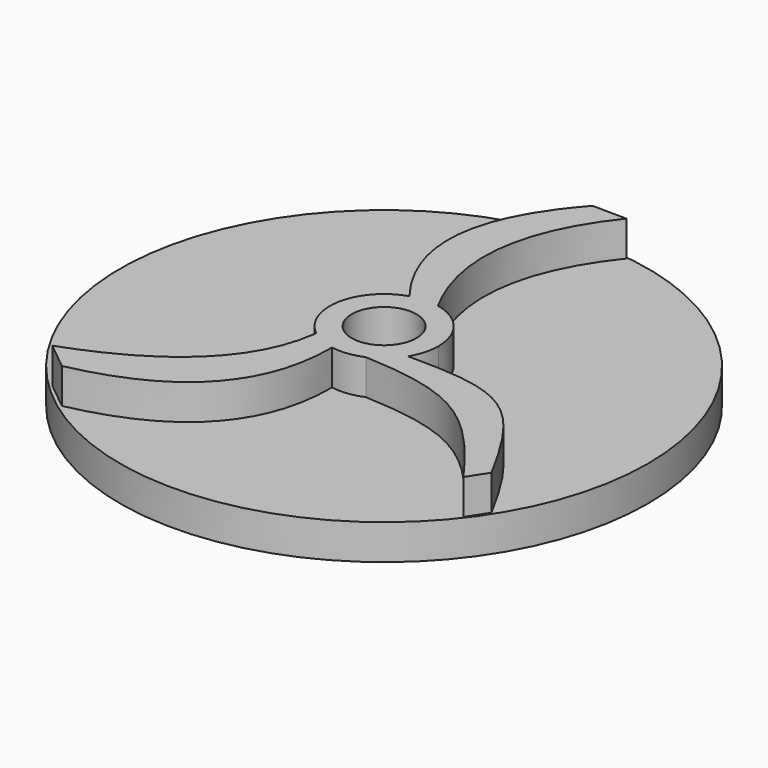
from build123d import *

# Parameters (mm, degrees)
F0_R     = 38.1
F1_DEPTH = 5.08
F3_DEPTH = 5.08
F4_R     = 4.679015
F5_DEPTH = 25.4


with BuildPart() as f1:
    # F0 (on Top) → F1 (new body)
    with BuildSketch(Plane.XY):
        Circle(F0_R)
    extrude(amount=-F1_DEPTH)

    # F2 (on Top) → F3 (join)
    with BuildSketch(Plane.XY):
        with BuildLine():
            ThreePointArc((6.714925, -4.061114), (7.559037, -2.108039), (7.847475, 0))
            ThreePointArc((7.847475, 0), (6.10013, 4.936729), (1.636232, 7.674999))
            ThreePointArc((1.636232, 7.674999), (-0.362003, 7.839121), (-2.336609, 7.491537))
            ThreePointArc((-2.336609, 7.491537), (-7.713703, 1.442794), (-4.88639, -6.140526))
            ThreePointArc((-4.88639, -6.140526), (-3.20497, -7.163173), (-1.321987, -7.735323))
            ThreePointArc((-1.321987, -7.735323), (0.937058, -7.791328), (3.118403, -7.20128))
            ThreePointArc((3.118403, -7.20128), (5.161274, -5.911356), (6.714925, -4.061114))
        make_face()
        with BuildLine():
            ThreePointArc((-2.336609, 7.491537), (-0.362003, 7.839121), (1.636232, 7.674999))
            add(Edge.make_bspline(
                [(4.922261, 37.561897), (-3.396095, 27.139671), (-3.426963, 16.903229), (1.636232, 7.674999)],
                knots=[0, 0, 0, 0, 30.067003, 30.067003, 30.067003, 30.067003], degree=3))
            Line((4.922261, 37.561897), (0, 37.607454))
            add(Edge.make_bspline(
                [(-2.336609, 7.491537), (-9.098259, 16.218371), (-10.203362, 26.240014), (0, 37.607454)],
                knots=[0, 0, 0, 0, 30.206426, 30.206426, 30.206426, 30.206426], degree=3))
        make_face()
        with BuildLine():
            add(Edge.make_bspline(
                [(6.714925, -4.061114), (20.714046, -4.037036), (23.886483, -5.73107), (31.794433, -20.356581)],
                knots=[0, 0, 0, 0, 29.908592, 29.908592, 29.908592, 29.908592], degree=3))
            ThreePointArc((6.714925, -4.061114), (5.161274, -5.911356), (3.118403, -7.20128))
            add(Edge.make_bspline(
                [(3.118403, -7.20128), (16.17207, -7.814267), (20.896574, -10.618221), (29.992331, -23.169141)],
                knots=[0, 0, 0, 0, 31.259888, 31.259888, 31.259888, 31.259888], degree=3))
            Line((29.992331, -23.169141), (31.794433, -20.356581))
        make_face()
        with BuildLine():
            ThreePointArc((-1.321987, -7.735323), (-3.20497, -7.163173), (-4.88639, -6.140526))
            add(Edge.make_bspline(
                [(-4.88639, -6.140526), (-6.197293, -16.774258), (-15.328656, -23.210278), (-26.230019, -27.077071)],
                knots=[0, 0, 0, 0, 29.897983, 29.897983, 29.897983, 29.897983], degree=3))
            Line((-26.230019, -27.077071), (-22.290342, -30.278141))
            add(Edge.make_bspline(
                [(-1.321987, -7.735323), (-1.265044, -20.887848), (-9.577676, -27.635643), (-22.290342, -30.278141)],
                knots=[0, 0, 0, 0, 30.787181, 30.787181, 30.787181, 30.787181], degree=3))
        make_face()
    extrude(amount=F3_DEPTH)

    # F4 (on face) → F5 (cut)
    with BuildSketch(Plane.XY.offset(5.08)):
        Circle(F4_R)
    extrude(amount=-F5_DEPTH, mode=Mode.SUBTRACT)


solid = f1.part
